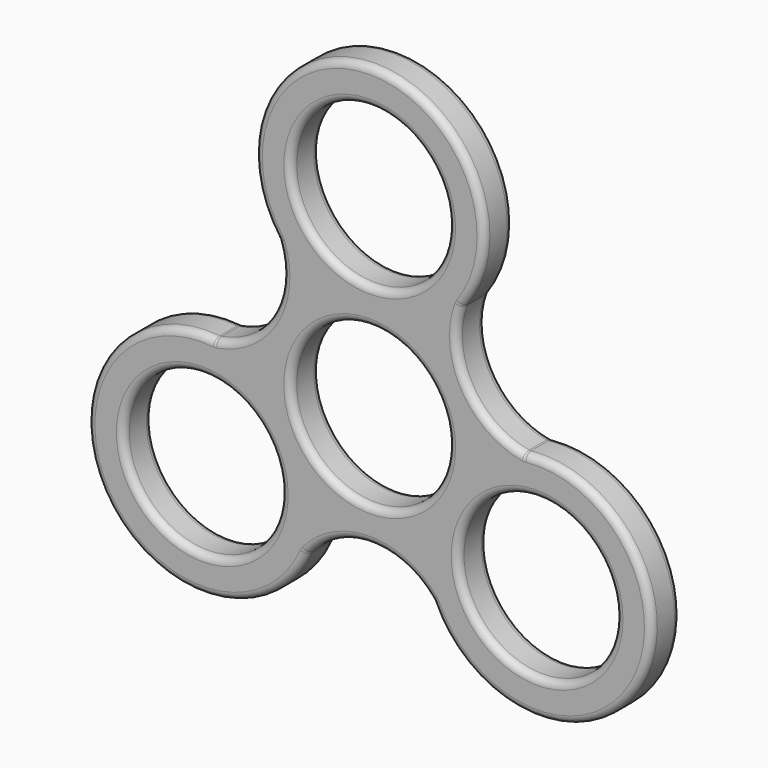
from build123d import *

# Parameters (mm, degrees)
F0_R     = 11
F1_DEPTH = 5
F2_R     = 1
F3_R     = 1
F4_R     = 1
F5_R     = 1
F6_R     = 1


with BuildPart() as f1:
    # F0 (on Front) → F1 (new body)
    with BuildSketch(Plane.XZ):
        with BuildLine():
            ThreePointArc((-12.888037, 17.518519), (-13.650543, 7.881145), (-21.615501, 2.402109))
            ThreePointArc((-21.615501, 2.402109), (-37.239092, -21.5), (-8.727463, -19.920627))
            ThreePointArc((-8.727463, -19.920627), (0, -15.762289), (8.727463, -19.920627))
            ThreePointArc((8.727463, -19.920627), (37.239092, -21.5), (21.615501, 2.402109))
            ThreePointArc((21.615501, 2.402109), (13.650543, 7.881145), (12.888037, 17.518519))
            ThreePointArc((12.888037, 17.518519), (0, 43), (-12.888037, 17.518519))
        make_face()
        with Locations((-23.382686, -13.5)):
            Circle(F0_R, mode=Mode.SUBTRACT)
        with Locations((23.382686, -13.5)):
            Circle(F0_R, mode=Mode.SUBTRACT)
        Circle(F0_R, mode=Mode.SUBTRACT)
        with Locations((0, 27)):
            Circle(F0_R, mode=Mode.SUBTRACT)
    extrude(amount=F1_DEPTH)

    # F2
    f2_edges = [f1.edges().sort_by_distance(p)[0] for p in [
        (11, -2.5, 0),
        (-11, 0, 0),
        (-11, -5, 0),
    ]]
    fillet(f2_edges, radius=F2_R)

    # F3
    f3_edges = [f1.edges().sort_by_distance(p)[0] for p in [
        (11, -2.5, 27),
        (-11, 0, 27),
        (-11, -5, 27),
    ]]
    fillet(f3_edges, radius=F3_R)

    # F4
    f4_edges = [f1.edges().sort_by_distance(p)[0] for p in [
        (34.382686, -2.5, -13.5),
        (12.382686, 0, -13.5),
        (12.382686, -5, -13.5),
    ]]
    fillet(f4_edges, radius=F4_R)

    # F5
    f5_edges = [f1.edges().sort_by_distance(p)[0] for p in [
        (-12.382686, -2.5, -13.5),
        (-34.382686, 0, -13.5),
        (-34.382686, -5, -13.5),
    ]]
    fillet(f5_edges, radius=F5_R)

    # F6
    f6_edges = [f1.edges().sort_by_distance(p)[0] for p in [
        (-21.615501, -2.5, 2.402109),
        (-8.727463, -2.5, -19.920627),
        (-37.239092, 0, -21.5),
        (-37.239092, -5, -21.5),
        (8.727463, -2.5, -19.920627),
        (0, 0, -15.762289),
        (0, -5, -15.762289),
        (21.615501, -2.5, 2.402109),
        (37.239092, 0, -21.5),
        (37.239092, -5, -21.5),
        (12.888037, -2.5, 17.518519),
        (13.650543, 0, 7.881145),
        (13.650543, -5, 7.881145),
        (-12.888037, -2.5, 17.518519),
        (0, 0, 43),
        (0, -5, 43),
        (-13.650543, 0, 7.881145),
        (-13.650543, -5, 7.881145),
    ]]
    fillet(f6_edges, radius=F6_R)


solid = f1.part
